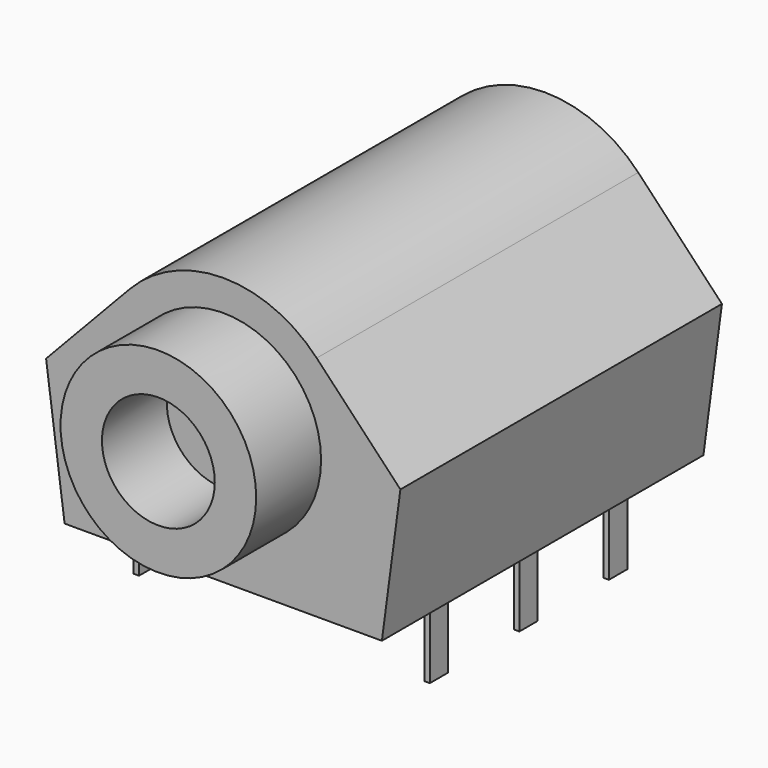
from build123d import *

# Parameters (mm, degrees)
PAD_DEPTH     = 22.8
SKETCH001_R   = 5.55
SKETCH001_R_2 = 3.2
PAD001_DEPTH  = 4.6
SKETCH002_R   = 4.7
PAD002_DEPTH  = 2.3
SKETCH003_W   = 0.3
SKETCH003_H   = 1.3
POCKET_DEPTH  = 0.1
SKETCH004_W   = 0.3
SKETCH004_H   = 1.3
PAD003_DEPTH  = 4
SKETCH005_W   = 0.3
SKETCH005_H   = 1.3
PAD004_DEPTH  = 4
SKETCH006_W   = 0.3
SKETCH006_H   = 1.3
PAD005_DEPTH  = 4
SKETCH007_W   = 0.3
SKETCH007_H   = 1.3
PAD006_DEPTH  = 4
SKETCH008_W   = 0.3
SKETCH008_H   = 1.3
PAD007_DEPTH  = 4
SKETCH009_W   = 0.3
SKETCH009_H   = 1.3
PAD008_DEPTH  = 4


with BuildPart() as jack:
    # Sketch → Pad (new body)
    with BuildSketch(Plane.XZ):
        with BuildLine():
            Line((0, 7.9), (1.05, 0))
            Line((1.05, 0), (19.05, 0))
            Line((19.05, 0), (20.1, 7.9))
            Line((20.1, 7.9), (15.352488, 12.917333))
            ThreePointArc((15.352488, 12.917333), (10.05, 15.2), (4.747512, 12.917333))
            Line((4.747512, 12.917333), (0, 7.9))
        make_face()
    extrude(amount=PAD_DEPTH)

    # Sketch001 (on Face8 of Pad) → Pad001 (join)
    with BuildSketch(Plane.XZ.offset(22.8)):
        with Locations((10.05, 7.9)):
            Circle(SKETCH001_R)
        with Locations((10.05, 7.9)):
            Circle(SKETCH001_R_2, mode=Mode.SUBTRACT)
    extrude(amount=PAD001_DEPTH)

    # Sketch002 (on Face4 of Pad001) → Pad002 (join)
    with BuildSketch(Plane(origin=(0, 0, 0), x_dir=(1, 0, 0), z_dir=(0, 1, 0))):
        with Locations((10.05, -7.9)):
            Circle(SKETCH002_R)
    extrude(amount=PAD002_DEPTH)

    # Sketch003 (on Face3 of Pad002) → Pocket (cut)
    with BuildSketch(Plane(origin=(0, 0, 0), x_dir=(1, 0, 0), z_dir=(0, 0, -1))):
        with Locations((1.8, 18)):
            Rectangle(SKETCH003_W, SKETCH003_H)
        with Locations((1.8, 11.65)):
            Rectangle(SKETCH003_W, SKETCH003_H)
        with Locations((1.8, 5.3)):
            Rectangle(SKETCH003_W, SKETCH003_H)
        with Locations((18.3, 5.3)):
            Rectangle(SKETCH003_W, SKETCH003_H)
        with Locations((18.3, 11.65)):
            Rectangle(SKETCH003_W, SKETCH003_H)
        with Locations((18.3, 18)):
            Rectangle(SKETCH003_W, SKETCH003_H)
    extrude(amount=-POCKET_DEPTH, mode=Mode.SUBTRACT)


with BuildPart() as obj1:
    # Sketch004 (on Face1 of ReferencePocket001) → Pad003 (new body)
    with BuildSketch(Plane(origin=(0, 0, 0), x_dir=(1, 0, 0), z_dir=(0, 0, -1))):
        with Locations((1.8, 18)):
            Rectangle(SKETCH004_W, SKETCH004_H)
    extrude(amount=PAD003_DEPTH)


with BuildPart() as obj2:
    # Sketch005 (on Face1 of ReferencePocket) → Pad004 (new body)
    with BuildSketch(Plane(origin=(0, 0, 0), x_dir=(1, 0, 0), z_dir=(0, 0, -1))):
        with Locations((1.8, 11.65)):
            Rectangle(SKETCH005_W, SKETCH005_H)
    extrude(amount=PAD004_DEPTH)


with BuildPart() as obj3:
    # Sketch006 (on Face1 of ReferencePocket002) → Pad005 (new body)
    with BuildSketch(Plane(origin=(0, 0, 0), x_dir=(1, 0, 0), z_dir=(0, 0, -1))):
        with Locations((1.8, 5.3)):
            Rectangle(SKETCH006_W, SKETCH006_H)
    extrude(amount=PAD005_DEPTH)


with BuildPart() as pint:
    # Sketch007 (on Face1 of ReferencePocket003) → Pad006 (new body)
    with BuildSketch(Plane(origin=(0, 0, 0), x_dir=(1, 0, 0), z_dir=(0, 0, -1))):
        with Locations((18.3, 5.3)):
            Rectangle(SKETCH007_W, SKETCH007_H)
    extrude(amount=PAD006_DEPTH)


with BuildPart() as obj4:
    # Sketch008 (on Face1 of ReferencePocket004) → Pad007 (new body)
    with BuildSketch(Plane(origin=(0, 0, 0), x_dir=(1, 0, 0), z_dir=(0, 0, -1))):
        with Locations((18.3, 11.65)):
            Rectangle(SKETCH008_W, SKETCH008_H)
    extrude(amount=PAD007_DEPTH)


with BuildPart() as pins:
    # Sketch009 (on Face1 of ReferencePocket005) → Pad008 (new body)
    with BuildSketch(Plane(origin=(0, 0, 0), x_dir=(1, 0, 0), z_dir=(0, 0, -1))):
        with Locations((18.3, 18)):
            Rectangle(SKETCH009_W, SKETCH009_H)
    extrude(amount=PAD008_DEPTH)


solid = Compound([jack.part, obj1.part, obj2.part, obj3.part, pint.part, obj4.part, pins.part])
